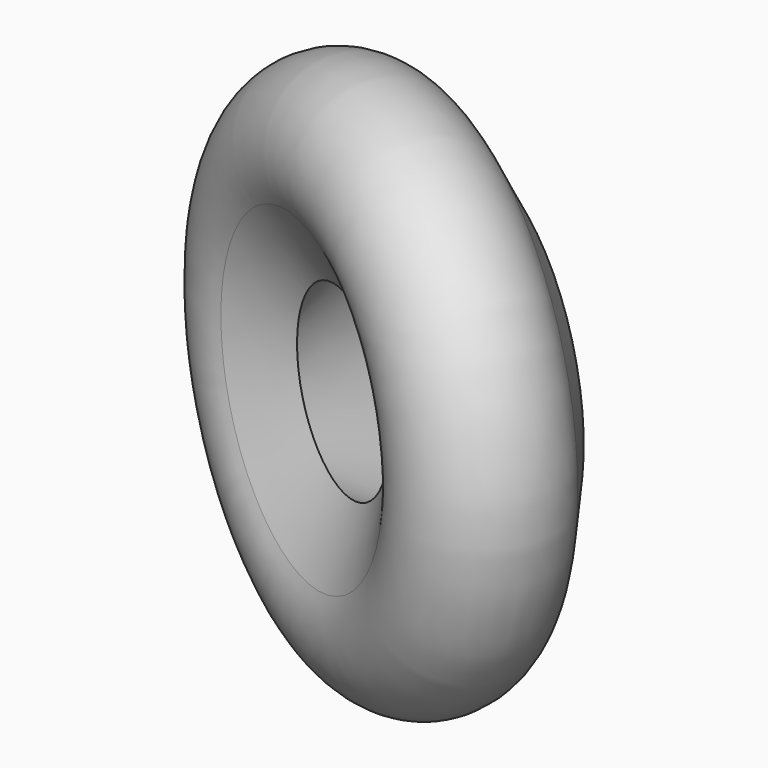
from build123d import *

# Parameters (mm, degrees)
F0_W = 3
F0_H = 6


with BuildPart() as f1:
    # F0 (on Top) → F1 (revolve)
    with BuildSketch(Plane.XY):
        with BuildLine():
            ThreePointArc((-3, 6), (-6, 3), (-3, 0))
            Line((-3, 0), (-3, 6))
        make_face()
        with Locations((-1.5, 3)):
            Rectangle(F0_W, F0_H)
    revolve(axis=Axis((5.467172, 2.95293, 0), (-0.460715, -0.887548, 0)))


solid = f1.part
